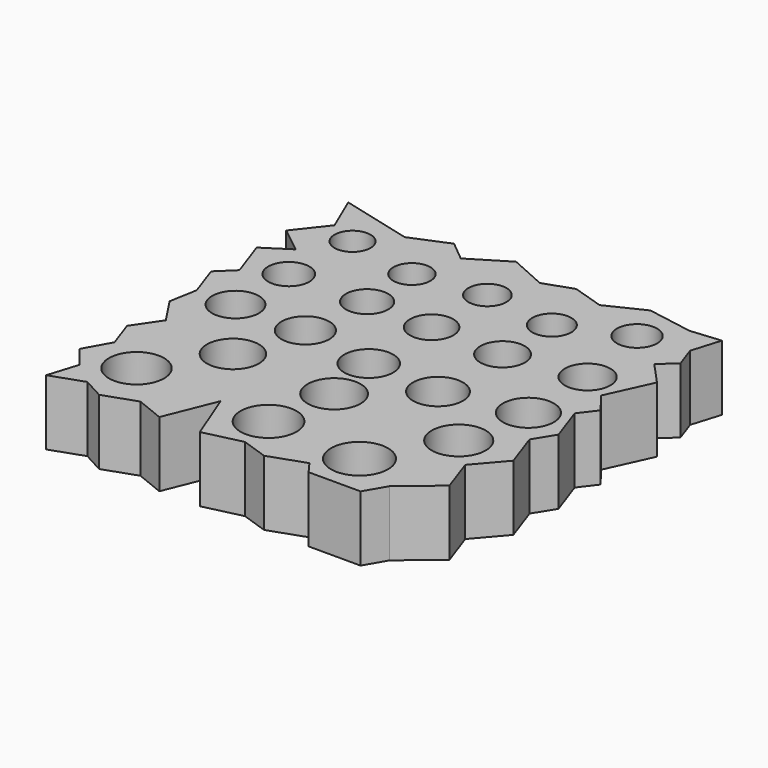
from build123d import *

# Parameters (mm, degrees)
F0_R     = 10.7
F0_R_2   = 10.9
F0_R_3   = 9.1
F0_R_4   = 10.1
F0_R_5   = 9.3
F0_R_6   = 9.5
F0_R_7   = 11.1
F0_R_8   = 10.3
F0_R_9   = 9.7
F0_R_10  = 10.5
F0_R_11  = 9.9
F0_R_12  = 8
F0_R_13  = 8.225
F0_R_14  = 8.45
F0_R_15  = 7
F0_R_16  = 7.2
F0_R_17  = 7.4
F0_R_18  = 8.65
F0_R_19  = 8.85
F0_R_20  = 7.6
F0_R_21  = 7.8
F1_DEPTH = 25.4


with BuildPart() as f1:
    # F0 (on Top) → F1 (new body)
    with BuildSketch(Plane.XY):
        Polygon((-43.370046, 66.694871), (-71.039788, 73.835447), (-64.892714, 59.478019), (-74.194374, 47.642876), (-64.169625, 39.764069), (-74.194374, 33.27913), (-68.989453, 18.404532), (-75.21798, 12.435964), (-70.866387, 0), (-72.780757, -10.756556), (-65.846058, -21.280914), (-72.780757, -31.444447), (-68.989453, -42.279216), (-74.58584, -52.368706), (-68.060883, -60.507296), (-71.679206, -72.174512), (-59.155129, -67.792086), (-51.042687, -72.174512), (-38.51861, -67.792086), (-27.663881, -72.174512), (-19.667598, -52.368706), (-11.918255, -72.174512), (2.882631, -68.700455), (13.051437, -72.174512), (26.823167, -67.355507), (30.359259, -72.174512), (41.413072, -72.174512), (50.571952, -72.174512), (55.309299, -63.963108), (69.252096, -52.368706), (64.468175, -38.697239), (74.15197, -27.434214), (69.252096, -13.431376), (74.15197, -5.508246), (69.252096, 8.494591), (74.15197, 14.925677), (68.20149, 22.661304), (76.080737, 39.954469), (67.903966, 48.843425), (73.777615, 54.246476), (70.879206, 62.529534), (74.291575, 73.733234), (62.548533, 72.631314), (44.964856, 75.661271), (30.713456, 68.777539), (18.519877, 72.631314), (7.506575, 68.777539), (-6.904133, 75.213181), (-21.353263, 66.397347), (-28.986626, 72.697847), align=None)
        with Locations((-53.107839, -51.450886)):
            Circle(F0_R, mode=Mode.SUBTRACT)
        with Locations((0, -53.693082)):
            Circle(F0_R_2, mode=Mode.SUBTRACT)
        with Locations((-55.786539, 0)):
            Circle(F0_R_3, mode=Mode.SUBTRACT)
        with Locations((-36.131218, -25.825793)):
            Circle(F0_R_4, mode=Mode.SUBTRACT)
        with Locations((-28.625328, 0)):
            Circle(F0_R_5, mode=Mode.SUBTRACT)
        with Locations((0, -4.993503)):
            Circle(F0_R_6, mode=Mode.SUBTRACT)
        with Locations((36.900301, -55.614963)):
            Circle(F0_R_7, mode=Mode.SUBTRACT)
        with Locations((4.228305, -27.107049)):
            Circle(F0_R_8, mode=Mode.SUBTRACT)
        with Locations((27.933899, -6.271678)):
            Circle(F0_R_9, mode=Mode.SUBTRACT)
        with Locations((52.915979, -27.427362)):
            Circle(F0_R_10, mode=Mode.SUBTRACT)
        with Locations((58.059551, 0)):
            Circle(F0_R_11, mode=Mode.SUBTRACT)
        with Locations((-55.670351, 25.744705)):
            Circle(F0_R_12, mode=Mode.SUBTRACT)
        with Locations((-25.799653, 26.459009)):
            Circle(F0_R_13, mode=Mode.SUBTRACT)
        with Locations((0, 25.545178)):
            Circle(F0_R_14, mode=Mode.SUBTRACT)
        with Locations((-54.028157, 54.661482)):
            Circle(F0_R_15, mode=Mode.SUBTRACT)
        with Locations((-26.521808, 49.127601)):
            Circle(F0_R_16, mode=Mode.SUBTRACT)
        with Locations((0, 52.651051)):
            Circle(F0_R_17, mode=Mode.SUBTRACT)
        with Locations((27.931513, 25.104078)):
            Circle(F0_R_18, mode=Mode.SUBTRACT)
        with Locations((57.400368, 29.588468)):
            Circle(F0_R_19, mode=Mode.SUBTRACT)
        with Locations((27.6112, 49.447916)):
            Circle(F0_R_20, mode=Mode.SUBTRACT)
        with Locations((52.275352, 60.018267)):
            Circle(F0_R_21, mode=Mode.SUBTRACT)
    extrude(amount=F1_DEPTH)


solid = f1.part
